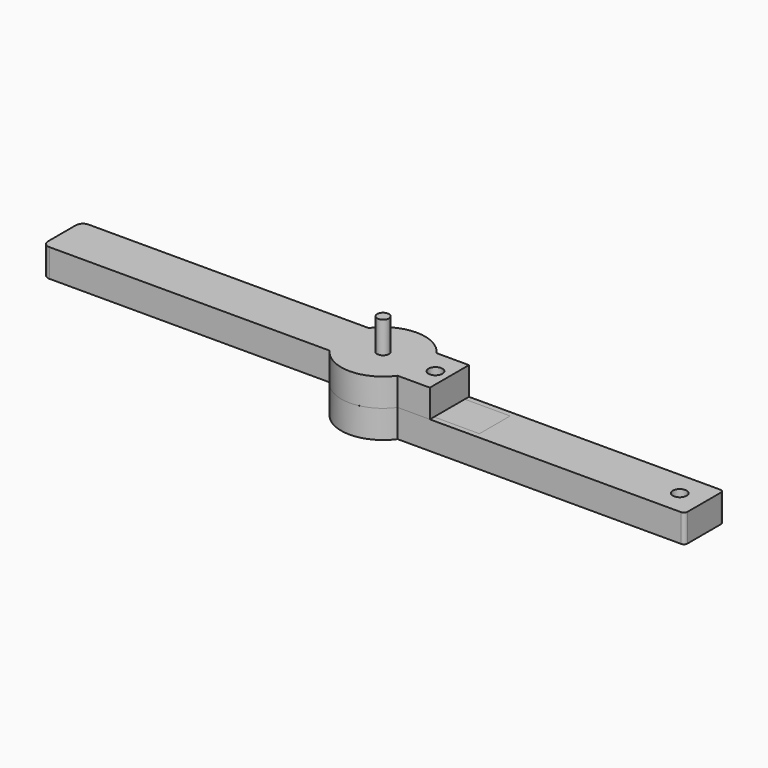
from build123d import *

# Parameters (mm, degrees)
BOX_W             = 25
BOX_H             = 11
BOX_DEPTH         = 5
CYLINDER003_R     = 5.2
CYLINDER003_DEPTH = 4
CYLINDER002_R     = 3
CYLINDER002_DEPTH = 3
CYLINDER001_R     = 1.7
CYLINDER001_DEPTH = 25
CYLINDER007_R     = 2
CYLINDER007_DEPTH = 10
CYLINDER006_R     = 3
CYLINDER006_DEPTH = 3
CYLINDER005_R     = 1.7
CYLINDER005_DEPTH = 25
CYLINDER004_R     = 5.2
CYLINDER004_DEPTH = 5
CYLINDER009_R     = 2
CYLINDER009_DEPTH = 10
CYLINDER008_R     = 2
CYLINDER008_DEPTH = 10
BOX002_W          = 25
BOX002_H          = 11
BOX002_DEPTH      = 5
BOX001_W          = 92
BOX001_H          = 14
BOX001_DEPTH      = 8
CYLINDER_R        = 12
CYLINDER_DEPTH    = 8
CHAMFER_SIZE      = 1
FILLET_R          = 1
FILLET001_R       = 1
CYLINDER013_R     = 2
CYLINDER013_DEPTH = 10
BOX004_W          = 10.5
BOX004_H          = 10.5
BOX004_DEPTH      = 5
CYLINDER012_R     = 3
CYLINDER012_DEPTH = 3
CYLINDER011_R     = 1.7
CYLINDER011_DEPTH = 25
CYLINDER010_R     = 12
CYLINDER010_DEPTH = 8
BOX003_W          = 92
BOX003_H          = 14
BOX003_DEPTH      = 8
BOX005_W          = 10
BOX005_H          = 14
BOX005_DEPTH      = 8
FILLET002_R       = 2
FILLET003_R       = 2


with BuildPart() as long_magnet:
    # Box → Box (new body)
    with BuildSketch(Plane(origin=(7, -5.5, 3), x_dir=(1, 0, 0), z_dir=(0, 0, 1))):
        with Locations((12.5, 5.5)):
            Rectangle(BOX_W, BOX_H)
    extrude(amount=BOX_DEPTH)


with BuildPart() as bearing:
    # Cylinder003 → Cylinder003 (new body)
    with BuildSketch(Plane.XY.offset(3)):
        Circle(CYLINDER003_R)
    extrude(amount=CYLINDER003_DEPTH)


with BuildPart() as cylinder002:
    # Cylinder002 → Cylinder002 (new body)
    with BuildSketch(Plane.XY):
        Circle(CYLINDER002_R)
    extrude(amount=CYLINDER002_DEPTH)


with BuildPart() as screw:
    # Cylinder001 → Cylinder001 (new body)
    with BuildSketch(Plane.XY):
        Circle(CYLINDER001_R)
    extrude(amount=CYLINDER001_DEPTH)

    # Fusion: union Cylinder002
    add(cylinder002.part)


with BuildPart() as string_hole:
    # Cylinder007 → Cylinder007 (new body)
    with BuildSketch(Plane(origin=(85, 0, -1), x_dir=(1, 0, 0), z_dir=(0, 0, 1))):
        Circle(CYLINDER007_R)
    extrude(amount=CYLINDER007_DEPTH)


with BuildPart() as cylinder006:
    # Cylinder006 → Cylinder006 (new body)
    with BuildSketch(Plane.XY):
        Circle(CYLINDER006_R)
    extrude(amount=CYLINDER006_DEPTH)


with BuildPart() as screw001:
    # Cylinder005 → Cylinder005 (new body)
    with BuildSketch(Plane.XY):
        Circle(CYLINDER005_R)
    extrude(amount=CYLINDER005_DEPTH)

    # Fusion001: union Cylinder006
    add(cylinder006.part)


with BuildPart() as fusion004:
    # Cylinder004 → Cylinder004 (new body)
    with BuildSketch(Plane.XY.offset(3)):
        Circle(CYLINDER004_R)
    extrude(amount=CYLINDER004_DEPTH)

    # Fusion004: union Screw001
    add(screw001.part)


with BuildPart() as cylinder008:
    # Cylinder009 → Cylinder009 (new body)
    with BuildSketch(Plane(origin=(26, 0, -1), x_dir=(1, 0, 0), z_dir=(0, 0, 1))):
        Circle(CYLINDER009_R)
    extrude(amount=CYLINDER009_DEPTH)


with BuildPart() as fusion003:
    # Cylinder008 → Cylinder008 (new body)
    with BuildSketch(Plane(origin=(15, 0, -1), x_dir=(1, 0, 0), z_dir=(0, 0, 1))):
        Circle(CYLINDER008_R)
    extrude(amount=CYLINDER008_DEPTH)

    # Fusion003: union Cylinder008
    add(cylinder008.part)


with BuildPart() as long_magnet001:
    # Box002 → Box002 (new body)
    with BuildSketch(Plane(origin=(7, -5.5, 3), x_dir=(1, 0, 0), z_dir=(0, 0, 1))):
        with Locations((12.5, 5.5)):
            Rectangle(BOX002_W, BOX002_H)
    extrude(amount=BOX002_DEPTH)


with BuildPart() as cube:
    # Box001 → Box001 (new body)
    with BuildSketch(Plane(origin=(0, -7, 0), x_dir=(1, 0, 0), z_dir=(0, 0, 1))):
        with Locations((46, 7)):
            Rectangle(BOX001_W, BOX001_H)
    extrude(amount=BOX001_DEPTH)


with BuildPart() as fillet001:
    # Cylinder → Cylinder (new body)
    with BuildSketch(Plane.XY):
        Circle(CYLINDER_R)
    extrude(amount=CYLINDER_DEPTH)

    # Fusion002: union Cube
    add(cube.part)

    # Cut: cut Long Magnet001
    add(long_magnet001.part, mode=Mode.SUBTRACT)

    # Cut001: cut Fusion003
    add(fusion003.part, mode=Mode.SUBTRACT)

    # Cut002: cut Fusion004
    add(fusion004.part, mode=Mode.SUBTRACT)

    # Cut003: cut string hole
    add(string_hole.part, mode=Mode.SUBTRACT)

    # Chamfer
    chamfer_edges = [fillet001.edges().sort_by_distance(p)[0] for p in [
        (-3, 0, 3),
    ]]
    chamfer(chamfer_edges, length=CHAMFER_SIZE)

    # Fillet
    fillet_edges = [fillet001.edges().sort_by_distance(p)[0] for p in [
        (92, 7, 4),
    ]]
    fillet(fillet_edges, radius=FILLET_R)

    # Fillet001
    fillet001_edges = [fillet001.edges().sort_by_distance(p)[0] for p in [
        (92, -7, 4),
    ]]
    fillet(fillet001_edges, radius=FILLET001_R)


with BuildPart() as cylinder013:
    # Cylinder013 → Cylinder013 (new body)
    with BuildSketch(Plane(origin=(15, 0, 8), x_dir=(1, 0, 0), z_dir=(0, 0, 1))):
        Circle(CYLINDER013_R)
    extrude(amount=CYLINDER013_DEPTH)


with BuildPart() as square_magnet:
    # Box004 → Box004 (new body)
    with BuildSketch(Plane(origin=(7, -5.5, 8), x_dir=(1, 0, 0), z_dir=(0, 0, 1))):
        with Locations((5.25, 5.25)):
            Rectangle(BOX004_W, BOX004_H)
    extrude(amount=BOX004_DEPTH)


with BuildPart() as cylinder012:
    # Cylinder012 → Cylinder012 (new body)
    with BuildSketch(Plane.XY):
        Circle(CYLINDER012_R)
    extrude(amount=CYLINDER012_DEPTH)


with BuildPart() as screw002:
    # Cylinder011 → Cylinder011 (new body)
    with BuildSketch(Plane.XY):
        Circle(CYLINDER011_R)
    extrude(amount=CYLINDER011_DEPTH)

    # Fusion005: union Cylinder012
    add(cylinder012.part)


with BuildPart() as cylinder010:
    # Cylinder010 → Cylinder010 (new body)
    with BuildSketch(Plane.XY.offset(8)):
        Circle(CYLINDER010_R)
    extrude(amount=CYLINDER010_DEPTH)


with BuildPart() as cube001:
    # Box003 → Box003 (new body)
    with BuildSketch(Plane(origin=(-92, -7, 8), x_dir=(1, 0, 0), z_dir=(0, 0, 1))):
        with Locations((46, 7)):
            Rectangle(BOX003_W, BOX003_H)
    extrude(amount=BOX003_DEPTH)


with BuildPart() as fillet003:
    # Box005 → Box005 (new body)
    with BuildSketch(Plane(origin=(9, -7, 8), x_dir=(1, 0, 0), z_dir=(0, 0, 1))):
        with Locations((5, 7)):
            Rectangle(BOX005_W, BOX005_H)
    extrude(amount=BOX005_DEPTH)

    # Fusion006: union Cylinder010, Cube001
    add(cylinder010.part)
    add(cube001.part)

    # Cut004: cut Screw002
    add(screw002.part, mode=Mode.SUBTRACT)

    # Cut005: cut Square Magnet
    add(square_magnet.part, mode=Mode.SUBTRACT)

    # Cut006: cut Cylinder013
    add(cylinder013.part, mode=Mode.SUBTRACT)

    # Fillet002
    fillet002_edges = [fillet003.edges().sort_by_distance(p)[0] for p in [
        (-92, 7, 12),
    ]]
    fillet(fillet002_edges, radius=FILLET002_R)

    # Fillet003
    fillet003_edges = [fillet003.edges().sort_by_distance(p)[0] for p in [
        (-92, -7, 12),
    ]]
    fillet(fillet003_edges, radius=FILLET003_R)


solid = Compound([long_magnet.part, bearing.part, screw.part, fillet001.part, fillet003.part])
